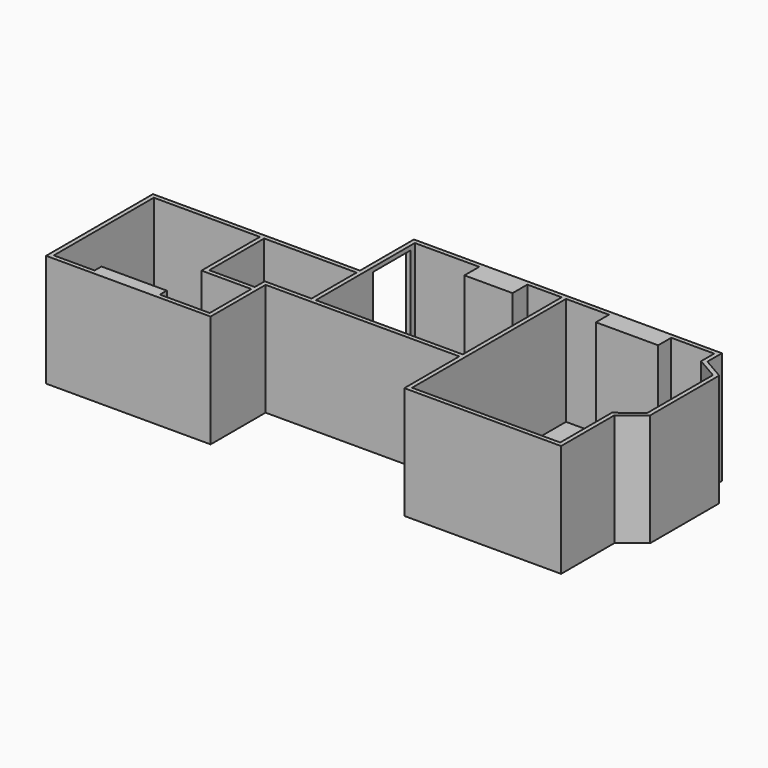
from build123d import *

# Parameters (mm, degrees)
F1_DEPTH = 2520
F3_DEPTH = 100
F4_W     = 1080
F4_H     = 1820
F5_DEPTH = 100


with BuildPart() as f1:
    # F0 (on Top) → F1 (new body)
    with BuildSketch(Plane.XY):
        Polygon((-100.000001, 3510.000185), (-100.000001, 400.000185), (3250.000037, 400.000185), (3729.997109, 400.000185), (3729.997109, 2000), (4719.99711, 2000), (8240, 2000), (8240, 400.000185), (8316.840935, 400.000185), (11890, 400.000185), (11890, 1951.458778), (12400, 2353.002888), (12400, 4363.286575), (11890, 4657.735212), (11890, 5080.000185), (11790, 5080.000185), (4720, 5080.000185), (4720, 4980.000185), (4720, 3510.000185), (2569.999999, 3510.000185), align=None)
        Polygon((949.999999, 500.000185), (-1e-06, 500.000185), (-1e-06, 3410.000185), (2469.999999, 3410.000185), (2469.999999, 1910.000185), (2469.999999, 1810.000185), (2469.999999, 1710.000185), (2569.999999, 1710.000185), (3629.999999, 1710.000185), (3629.999999, 500.000185), (2469.999999, 500.000185), (2469.999999, 700.000185), (949.999999, 700.000185), align=None, mode=Mode.SUBTRACT)
        Polygon((2569.999999, 3410.000185), (4720, 3410.000185), (4720, 3010), (4720, 2100.000185), (3629.999999, 2100.000185), (3629.999999, 1810.000185), (2569.999999, 1810.000185), align=None, mode=Mode.SUBTRACT)
        Polygon((8240, 2100.000185), (4820, 2100.000185), (4820, 4980.000185), (6320, 4980.000185), (6320, 4550.000185), (7440, 4550.000185), (7440, 4980.000185), (8240, 4980.000185), align=None, mode=Mode.SUBTRACT)
        Polygon((8340, 500.000185), (8340, 4980.000185), (9340, 4980.000185), (9340, 4600.000185), (10790, 4600.000185), (10790, 4980.000185), (11790, 4980.000185), (11790, 4600.000185), (12300, 4305.551548), (12300, 2401.544295), (11790, 2000.000185), (11790, 500.000185), align=None, mode=Mode.SUBTRACT)
    extrude(amount=F1_DEPTH)

    # F2 (on face) → F3 (join)
    with BuildSketch(Plane(origin=(0, 0, 0), x_dir=(1, 0, 0), z_dir=(0, 0, -1))):
        Polygon((4720, -3510.000185), (4720, -5080.000185), (11890, -5080.000185), (11890, -4657.735212), (12400, -4363.286575), (12400, -2353.002888), (11890, -1951.458778), (11890, -400.000185), (8240, -400.000185), (8240, -2000), (3729.997109, -2000), (3729.997109, -400.000185), (-100.000001, -400.000185), (-100.000001, -3510.000185), align=None)
    extrude(amount=F3_DEPTH)

    # F4 (on face) → F5 (cut, through all)
    with BuildSketch(Plane.YZ.offset(4820)):
        with Locations((4310.000185, 1510)):
            Rectangle(F4_W, F4_H)
    extrude(amount=-F5_DEPTH, mode=Mode.SUBTRACT)


solid = f1.part
